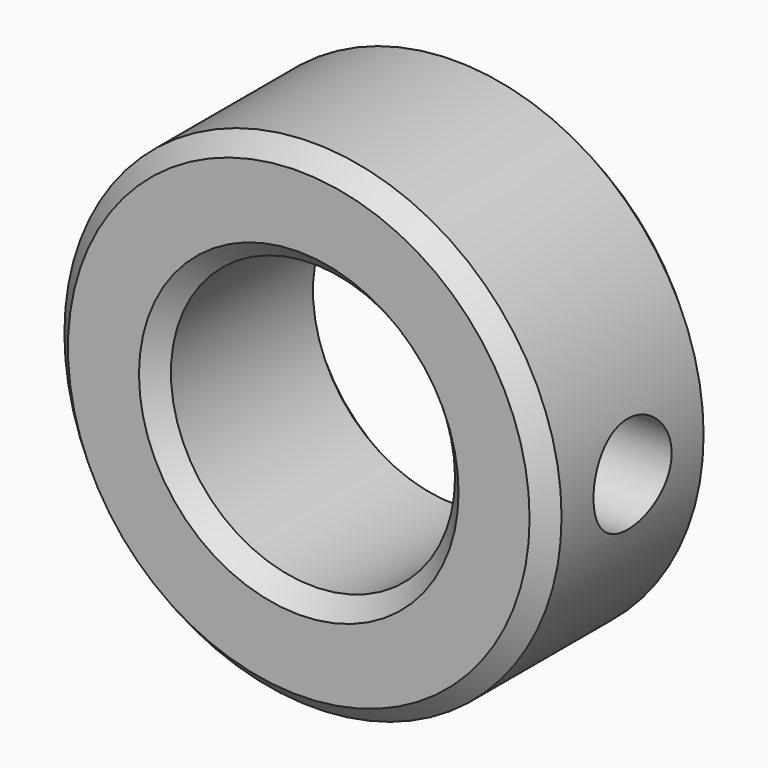
from build123d import *

# Parameters (mm, degrees)
F1_R     = 14
F1_R_2   = 8
F2_DEPTH = 12
F3_SIZE  = 1
F7_D     = 5.5
F7_DEPTH = 14.4
F7_START = 0.2727462
F7_TIP   = 1.6523667023


with BuildPart() as f2:
    # F1 (on Front) → F2 (new body)
    with BuildSketch(Plane.XZ):
        Circle(F1_R)
        Circle(F1_R_2, mode=Mode.SUBTRACT)
    extrude(amount=F2_DEPTH)

    # F3
    f3_edges = [f2.edges().sort_by_distance(p)[0] for p in [
        (14, -6, 0),
        (-14, 0, 0),
        (-14, -12, 0),
        (8, -6, 0),
        (-8, 0, 0),
        (-8, -12, 0),
    ]]
    chamfer(f3_edges, length=F3_SIZE)

    # F7
    # its depths count from where the whole tool has entered the part; down to there all is cleared
    with Locations(Plane.YZ.offset(14).offset(-F7_START)):
        with Locations((-6, 0)):
            Hole(F7_D / 2, depth=F7_DEPTH)
            with Locations((0, 0, -(F7_DEPTH + F7_TIP / 2))):  # 118° drill point
                Cone(0, F7_D / 2, F7_TIP, mode=Mode.SUBTRACT)


solid = f2.part
